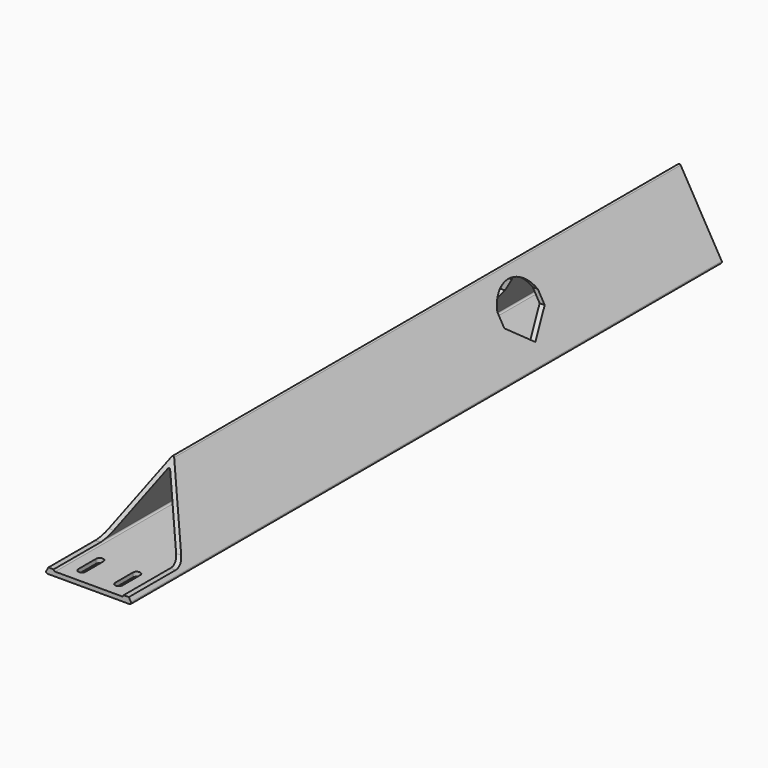
from build123d import *

# Parameters (mm, degrees)
F1_DEPTH      = 177.8
F1_DEPTH_BACK = 76.2
F2_R          = 0.508
F4_DEPTH      = 14.6291181898
F4_DEPTH_BACK = 14.6291181898
F6_DEPTH      = 25.4737621135
F8_DEPTH      = 14.6291181898
F8_DEPTH_BACK = 14.6291181898
F9_R          = 4.7625


with BuildPart() as f1:
    # F0 (on Front) → F1 (new body, two sides)
    with BuildSketch(Plane.XZ) as f1_sk:
        Polygon((0, 25.9807621135), (-15, 0), (15, 0), align=None)
        Polygon((-12.4019237886, 1.5), (0, 22.9807621135), (12.4019237886, 1.5), align=None, mode=Mode.SUBTRACT)
    extrude(amount=F1_DEPTH)
    extrude(f1_sk.sketch, amount=-F1_DEPTH_BACK)

    # F2
    f2_edges = [f1.edges().sort_by_distance(p)[0] for p in [
        (0, -50.8, 25.980762),
        (15, -50.8, 0),
        (-15, -50.8, 0),
        (-12.401924, -50.8, 1.5),
        (0, -50.8, 22.980762),
        (12.401924, -50.8, 1.5),
    ]]
    fillet(f2_edges, radius=F2_R)

    # F3 (on Right) → F4 (cut, two sides)
    with BuildSketch(Plane.YZ) as f4_sk:
        with BuildLine():
            Line((-8.6871078238, 16.7701914907), (-8.6706578732, 12.6613909379))
            Line((-8.6706578732, 12.6613909379), (0, 6.2201358425))
            Line((0, 6.2201358425), (8.6693109221, 12.6603903153))
            Line((8.6693109221, 12.6603903153), (8.6693109221, 16.7701914907))
            ThreePointArc((8.6693109221, 16.7701914907), (-0.0088984509, 22.3225436807), (-8.6871078238, 16.7701914907))
        make_face()
    extrude(amount=-F4_DEPTH, mode=Mode.SUBTRACT)
    extrude(f4_sk.sketch, amount=F4_DEPTH_BACK, mode=Mode.SUBTRACT)

    # F5 (on Top) → F6 (cut, through all)
    with BuildSketch(Plane.XY):
        with BuildLine():
            Line((-5.0927, -172.72), (-5.0927, -165.1))
            ThreePointArc((-5.0927, -165.1), (-6.35, -163.8427), (-7.6073, -165.1))
            Line((-7.6073, -165.1), (-7.6073, -172.72))
            ThreePointArc((-7.6073, -172.72), (-6.35, -173.9773), (-5.0927, -172.72))
        make_face()
        with BuildLine():
            ThreePointArc((7.6073, -165.1), (6.35, -163.8427), (5.0927, -165.1))
            Line((5.0927, -165.1), (5.0927, -172.72))
            ThreePointArc((5.0927, -172.72), (6.35, -173.9773), (7.6073, -172.72))
            Line((7.6073, -172.72), (7.6073, -165.1))
        make_face()
    extrude(amount=F6_DEPTH, mode=Mode.SUBTRACT)

    # F7 (on Right) → F8 (cut, two sides)
    with BuildSketch(Plane.YZ) as f8_sk:
        Polygon((-204.1564583778, 33.782), (-205.74, 2.032), (-154.94, 2.032), (-136.6091289532, 33.782), align=None)
    extrude(amount=-F8_DEPTH, mode=Mode.SUBTRACT)
    extrude(f8_sk.sketch, amount=F8_DEPTH_BACK, mode=Mode.SUBTRACT)

    # F9
    f9_edges = [f1.edges().sort_by_distance(p)[0] for p in [
        (12.928149, -154.94, 2.032),
        (-12.928149, -154.94, 2.032),
    ]]
    fillet(f9_edges, radius=F9_R)


solid = f1.part
